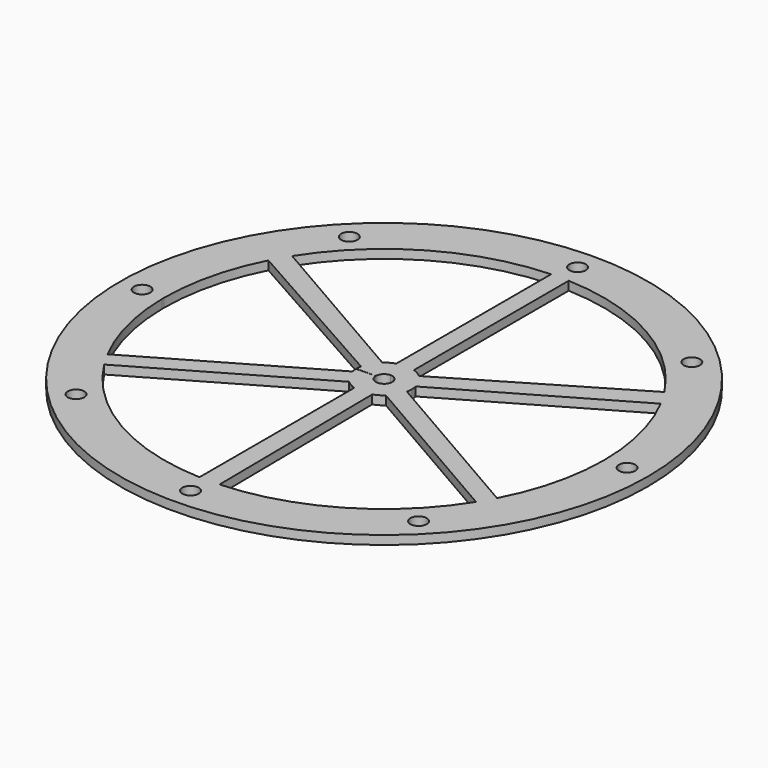
from build123d import *

# Parameters (mm, degrees)
F0_R     = 90
F1_DEPTH = 3
F2_D     = 5.6
F2_DEPTH = 3
F2_TIP   = 1.6824097333


with BuildPart() as f1:
    # F0 (on Top) → F1 (new body)
    with BuildSketch(Plane.XY):
        Circle(F0_R)
        with BuildLine():
            ThreePointArc((62.9650837524, 40.7479843434), (64.7491953426, 37.8489326466), (66.3999229584, 34.871911779))
            ThreePointArc((66.3999229584, 34.871911779), (72.7696706798, 18.1542014188), (74.9989143646, 0.4035395067))
            ThreePointArc((74.9989143646, 0.4035395067), (74.9997285907, 0.2017704835), (75, 0))
            ThreePointArc((75, 0), (72.8185096369, -17.9573008624), (66.400942553, -34.8699702906))
            ThreePointArc((66.400942553, -34.8699702906), (64.9524535099, -37.4990504286), (63.3999229584, -40.0680642017))
            ThreePointArc((63.3999229584, -40.0680642017), (37.8489326466, -64.7491953426), (3.8062477182, -74.9033542527))
            ThreePointArc((3.8062477182, -74.9033542527), (1.9037372516, -74.9758346701), (0, -75))
            ThreePointArc((0, -75), (-1.5003002102, -74.9849924937), (-3, -74.9399759808))
            ThreePointArc((-3, -74.9399759808), (-37.4990504286, -64.9524535099), (-63.3987513774, -40.0699179408))
            ThreePointArc((-63.3987513774, -40.0699179408), (-64.9513570439, -37.5009495634), (-66.3999229584, -34.871911779))
            ThreePointArc((-66.3999229584, -34.871911779), (-72.7205675816, -18.3499060111), (-74.9956574898, -0.8070673309))
            ThreePointArc((-74.9956574898, -0.8070673309), (-74.9989143646, -0.4035395067), (-75, 0))
            ThreePointArc((-75, 0), (-72.913818513, 17.5663049573), (-66.7713314706, 34.1553699093))
            ThreePointArc((-66.7713314706, 34.1553699093), (-65.1527348494, 37.149981718), (-63.3999229584, 40.0680642017))
            ThreePointArc((-63.3999229584, 40.0680642017), (-37.5009495634, 64.9513570439), (-3.0021911756, 74.9398882315))
            ThreePointArc((-3.0021911756, 74.9398882315), (-1.5013964566, 74.984970552), (0, 75))
            ThreePointArc((0, 75), (1.5003002102, 74.9849924937), (3, 74.9399759808))
            ThreePointArc((3, 74.9399759808), (37.149981718, 65.1527348494), (62.9650837524, 40.7479843434))
        make_face(mode=Mode.SUBTRACT)
        with BuildLine():
            Line((3, 8.9769110154), (3, 74.9399759808))
            ThreePointArc((3, 74.9399759808), (1.5003002102, 74.9849924937), (0, 75))
            Line((0, 75), (0, 9.4649316626))
            ThreePointArc((0, 9.4649316626), (1.5197174205, 9.342129861), (3, 8.9769110154))
        make_face()
        with BuildLine():
            Line((0, 9.4649316626), (0, 75))
            ThreePointArc((0, 75), (-1.5013964566, 74.984970552), (-3.0021911756, 74.9398882315))
            Line((-3.0021911756, 74.9398882315), (-3.0000002839, 8.9769109205))
            ThreePointArc((-3.0000002839, 8.9769109205), (-1.5197175682, 9.342129837), (0, 9.4649316626))
        make_face()
        with BuildLine():
            Line((-6.2742329868, 7.0865317191), (-63.3999229584, 40.0680642017))
            ThreePointArc((-63.3999229584, 40.0680642017), (-65.1527348494, 37.149981718), (-66.7713314706, 34.1553699093))
            Line((-66.7713314706, 34.1553699093), (-9.2940381858, 1.7904707703))
            ThreePointArc((-9.2940381858, 1.7904707703), (-8.2222157731, 4.6882938431), (-6.2742329868, 7.0865317191))
        make_face()
        with BuildLine():
            Line((9.2742329868, 1.8903792963), (66.3999229584, 34.871911779))
            ThreePointArc((66.3999229584, 34.871911779), (64.7491953426, 37.8489326466), (62.9650837524, 40.7479843434))
            Line((62.9650837524, 40.7479843434), (6.1976122647, 7.1536377875))
            ThreePointArc((6.1976122647, 7.1536377875), (8.171289455, 4.7765008134), (9.2742329868, 1.8903792963))
        make_face()
        with BuildLine():
            ThreePointArc((63.3999229584, -40.0680642017), (64.9524535099, -37.4990504286), (66.400942553, -34.8699702906))
            Line((66.400942553, -34.8699702906), (9.2742330466, -1.8903790031))
            ThreePointArc((9.2742330466, -1.8903790031), (8.1968713397, -4.7324657017), (6.2742329868, -7.0865317191))
            Line((6.2742329868, -7.0865317191), (63.3999229584, -40.0680642017))
        make_face()
        with BuildLine():
            ThreePointArc((-3, -74.9399759808), (-1.5003002102, -74.9849924937), (0, -75))
            Line((0, -75), (0, -9.4649316626))
            ThreePointArc((0, -9.4649316626), (-1.5197174205, -9.342129861), (-3, -8.9769110154))
            Line((-3, -8.9769110154), (-3, -74.9399759808))
        make_face()
        with BuildLine():
            ThreePointArc((0, -75), (1.9037372516, -74.9758346701), (3.8062477182, -74.9033542527))
            Line((3.8062477182, -74.9033542527), (3.0964259211, -8.9441085578))
            ThreePointArc((3.0964259211, -8.9441085578), (1.569961002, -9.3338177522), (0, -9.4649316626))
            Line((0, -9.4649316626), (0, -75))
        make_face()
        with BuildLine():
            ThreePointArc((-6.2742327628, -7.0865319175), (-8.1968711901, -4.7324659609), (-9.2742329868, -1.8903792963))
            Line((-9.2742329868, -1.8903792963), (-66.3999229584, -34.871911779))
            ThreePointArc((-66.3999229584, -34.871911779), (-64.9513570439, -37.5009495634), (-63.3987513774, -40.0699179408))
            Line((-63.3987513774, -40.0699179408), (-6.2742327628, -7.0865319175))
        make_face()
        with BuildLine():
            Line((0, -9.4649316626), (0, -2.8))
            ThreePointArc((0, -2.8), (-1.9692174285, -1.9905232275), (-2.7998378796, -0.0301305137))
            Line((-2.7998378796, -0.0301305137), (-9.4643836418, -0.1018511618))
            ThreePointArc((-9.4643836418, -0.1018511618), (-9.411888573, -1.0006422275), (-9.2742329868, -1.8903792963))
            ThreePointArc((-9.2742329868, -1.8903792963), (-8.1968711901, -4.7324659609), (-6.2742327628, -7.0865319175))
            ThreePointArc((-6.2742327628, -7.0865319175), (-4.7324657017, -8.1968713397), (-3, -8.9769110154))
            ThreePointArc((-3, -8.9769110154), (-1.5197174205, -9.342129861), (0, -9.4649316626))
        make_face()
        with BuildLine():
            Line((0, 2.8), (0, 9.4649316626))
            ThreePointArc((0, 9.4649316626), (-1.5197175682, 9.342129837), (-3.0000002839, 8.9769109205))
            ThreePointArc((-3.0000002839, 8.9769109205), (-4.7324659609, 8.1968711901), (-6.2742329868, 7.0865317191))
            ThreePointArc((-6.2742329868, 7.0865317191), (-8.2222157731, 4.6882938431), (-9.2940381858, 1.7904707703))
            ThreePointArc((-9.2940381858, 1.7904707703), (-9.4221114321, 0.8993039197), (-9.4649316626, 0))
            Line((-9.4649316626, 0), (-2.8, 0))
            ThreePointArc((-2.8, 0), (-1.9798989873, 1.9798989873), (0, 2.8))
        make_face()
        with BuildLine():
            ThreePointArc((9.4647946564, 0.0509263181), (9.4145465142, 0.9753180556), (9.2742329868, 1.8903792963))
            ThreePointArc((9.2742329868, 1.8903792963), (8.171289455, 4.7765008134), (6.1976122647, 7.1536377875))
            ThreePointArc((6.1976122647, 7.1536377875), (4.6882938431, 8.2222157731), (3, 8.9769110154))
            ThreePointArc((3, 8.9769110154), (1.5197174205, 9.342129861), (0, 9.4649316626))
            Line((0, 9.4649316626), (0, 2.8))
            ThreePointArc((0, 2.8), (1.9745653535, 1.9852182915), (2.7999594696, 0.0150654749))
            Line((2.7999594696, 0.0150654749), (9.4647946564, 0.0509263181))
        make_face()
        with BuildLine():
            ThreePointArc((9.4649316626, 0), (9.464897411, 0.0254632512), (9.4647946564, 0.0509263181))
            Line((9.4647946564, 0.0509263181), (2.7999594696, 0.0150654749))
            ThreePointArc((2.7999594696, 0.0150654749), (2.7999898674, 0.0075327647), (2.8, 0))
            ThreePointArc((2.8, 0), (1.9798989873, -1.9798989873), (0, -2.8))
            Line((0, -2.8), (0, -9.4649316626))
            ThreePointArc((0, -9.4649316626), (1.569961002, -9.3338177522), (3.0964259211, -8.9441085578))
            ThreePointArc((3.0964259211, -8.9441085578), (4.7765008134, -8.171289455), (6.2742329868, -7.0865317191))
            ThreePointArc((6.2742329868, -7.0865317191), (8.1968713397, -4.7324657017), (9.2742330466, -1.8903790031))
            ThreePointArc((9.2742330466, -1.8903790031), (9.4171363319, -0.9499866759), (9.4649316626, 0))
        make_face()
    extrude(amount=-F1_DEPTH)

    # F2
    with Locations(Plane.XY):
        with Locations((-82.5, 0), (0, 82.4787020683), (-58.4442449793, 58.2281738405), (57.9369569396, 58.7329466362), (82.498805801, 0.4438934574), (58.3898303202, -58.2827394275), (0, -82.5), (-58.52525457, -58.1467503608)):
            Hole(F2_D / 2, depth=F2_DEPTH)
            with Locations((0, 0, -(F2_DEPTH + F2_TIP / 2))):  # 118° drill point
                Cone(0, F2_D / 2, F2_TIP, mode=Mode.SUBTRACT)


solid = f1.part
